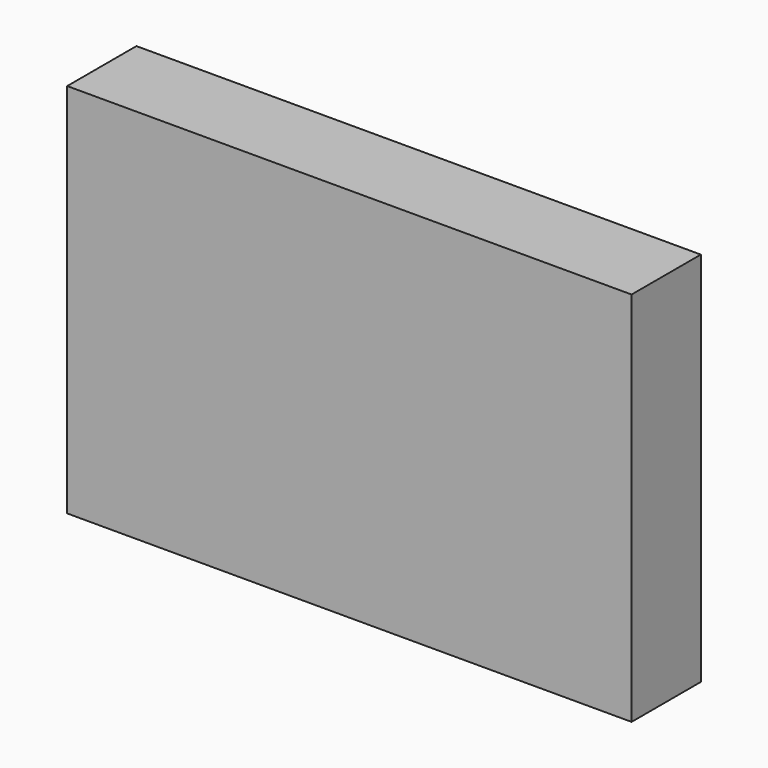
from build123d import *

# Parameters (mm, degrees)
F0_W     = 76.2
F0_H     = 50.8
F1_DEPTH = 5.842


with BuildPart() as f1:
    # F0 (on Front) → F1 (new body)
    with BuildSketch(Plane.XZ):
        with Locations((14.506998, 1.535342)):
            Rectangle(F0_W, F0_H)
    extrude(amount=F1_DEPTH)

    # F2: F1 across face


with BuildPart() as f1_1:
    add(f1.part)
    add(f1.part.mirror(Plane(origin=(14.506998, 0, 1.535342), x_dir=(1, 0, 0), z_dir=(0, 1, 0))))


solid = f1_1.part
